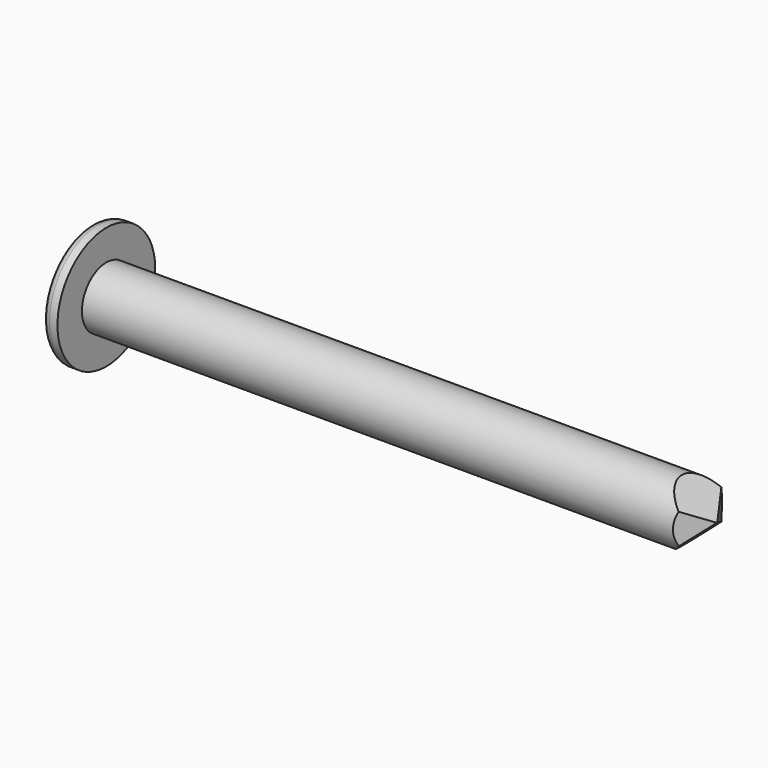
from build123d import *

# Parameters (mm, degrees)
F0_R          = 0.5
F1_DEPTH      = 10
F0_R_2        = 1
F2_DEPTH      = 0.25
F3_R          = 0.12
F5_DEPTH      = 5
F5_DEPTH_BACK = 5
F7_DEPTH      = 25
F7_DEPTH_BACK = 25


with BuildPart() as f1:
    # F0 (on Right) → F1 (new body)
    with BuildSketch(Plane.YZ):
        Circle(F0_R)
    extrude(amount=F1_DEPTH)

    # F0 (on Right) → F2 (join)
    with BuildSketch(Plane.YZ):
        Circle(F0_R_2)
        Circle(F0_R, mode=Mode.SUBTRACT)
        Circle(F0_R)
    extrude(amount=-F2_DEPTH)

    # F3
    f3_edges = [f1.edges().sort_by_distance(p)[0] for p in [
        (-0.25, -1, 0),
    ]]
    fillet(f3_edges, radius=F3_R)

    # F4 (on Front) → F5 (cut, two sides)
    with BuildSketch(Plane.XZ) as f5_sk:
        Polygon((8.994769305, 0.8649917436), (9.9934805185, 0), (9.1212727129, -0.79286861), (10.6126805767, -1.0325592011), (10.7525009662, 0.9182563517), align=None)
    extrude(amount=F5_DEPTH, mode=Mode.SUBTRACT)
    extrude(f5_sk.sketch, amount=-F5_DEPTH_BACK, mode=Mode.SUBTRACT)

    # F6 (on Top) → F7 (cut, two sides)
    with BuildSketch(Plane.XY) as f7_sk:
        Polygon((10.3356074542, 0.6147447275), (9.5979655161, 0.6147447275), (9.9958730862, 0), (9.5723690465, -0.6511143292), (10.3356074542, -0.6511143292), align=None)
    extrude(amount=F7_DEPTH, mode=Mode.SUBTRACT)
    extrude(f7_sk.sketch, amount=-F7_DEPTH_BACK, mode=Mode.SUBTRACT)


solid = f1.part
